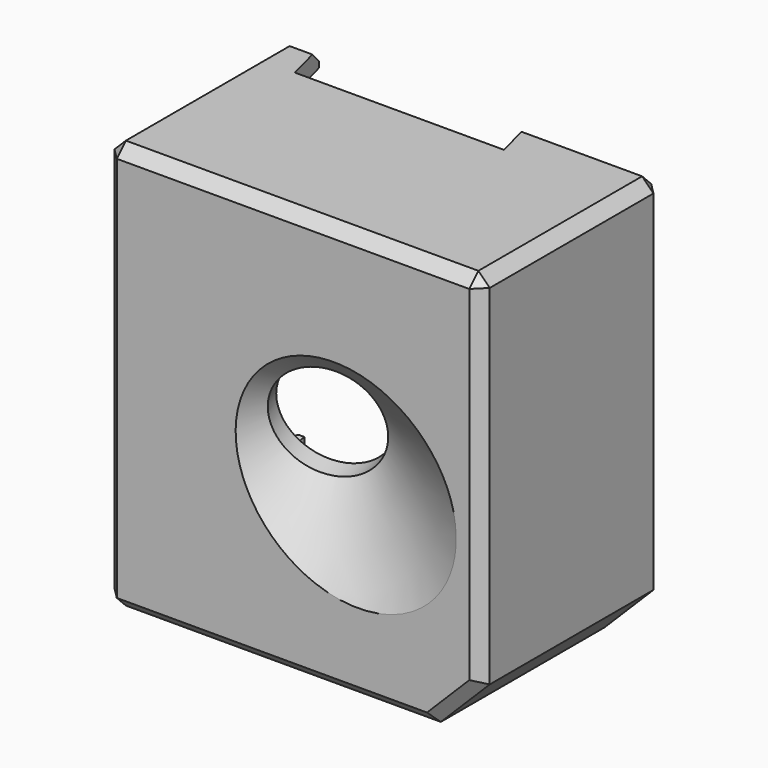
from build123d import *

# Parameters (mm, degrees)
F3_R      = 0.85
F4_DEPTH  = 20
F2_R      = 4.5
F5_DEPTH  = 50
F6_START  = 4
F2_R_2    = 0.8
F6_DEPTH  = 21
F7_DEPTH  = 25
F8_START  = 6
F8_DEPTH  = 19
F9_START  = 6
F9_DEPTH  = 19
F13_SIZE  = 1
F14_START = -18.5
F14_DEPTH = 6.5
F15_START = -10
F15_DEPTH = 15


with BuildPart() as f4:
    # F3 (on Front) → F4 (new body)
    with BuildSketch(Plane.XZ):
        Polygon((14.9801738807, -12.5709681619), (14.9801738807, 19.1251428629), (-18.0198261193, 19.1251428629), (-18.0198261193, -16.8748571371), (10.6762849054, -16.8748571371), align=None)
        Polygon((-16.5198261193, 17.6251428629), (13.4801738807, 17.6251428629), (13.4801738807, -11.6982692705), (9.803586014, -15.3748571371), (-16.5198261193, -15.3748571371), align=None, mode=Mode.SUBTRACT)
        Polygon((13.4801738807, -11.6982692705), (13.4801738807, 17.6251428629), (-16.5198261193, 17.6251428629), (-16.5198261193, -15.3748571371), (9.803586014, -15.3748571371), align=None)
        with Locations((-14.5791273393, -13.3661682528)):
            Circle(F3_R, mode=Mode.SUBTRACT)
        with Locations((11.6150360554, 15.5776236206)):
            Circle(F3_R, mode=Mode.SUBTRACT)
        with Locations((11.6150360554, 15.5776236206)):
            Circle(F3_R)
        with Locations((-14.5791273393, -13.3661682528)):
            Circle(F3_R)
    extrude(amount=-F4_DEPTH)

    # F2 (on line) → F5 (cut)
    with BuildSketch(Plane(origin=(-1.2431124909, 4.6393589756, 0.846901634), x_dir=(-0.9669708455, -0.2507434208, -0.0457724901), z_dir=(-0.2548870022, 0.9512512426, 0.1736481777))):
        with Locations((0, 1.2139233295)):
            Circle(F2_R)
    extrude(amount=-F5_DEPTH, mode=Mode.SUBTRACT)

    # F2 (on line) → F6 (cut)
    with BuildSketch(Plane(origin=(-1.2431124909, 4.6393589756, 0.846901634), x_dir=(-0.9669708455, -0.2507434208, -0.0457724901), z_dir=(-0.2548870022, 0.9512512426, 0.1736481777)).offset(F6_START)):
        with BuildLine():
            Line((13.4, -14.7860766705), (13.4, 11.2139233295))
            Line((13.4, 11.2139233295), (8.9, 11.2139233295))
            Line((8.9, 11.2139233295), (7.5141987763, 11.2139233295))
            Line((7.5141987763, 11.2139233295), (7.5141987763, -1.0798760923))
            Line((7.5141987763, -1.0798760923), (10.4285785928, -2.7891881764))
            Line((10.4285785928, -2.7891881764), (10.4285785928, -10.4892711845))
            ThreePointArc((10.4285785928, -10.4892711845), (11.0398439007, -10.6956797169), (11.3, -11.2860766705))
            ThreePointArc((11.3, -11.2860766705), (11.0656854249, -11.8517620955), (10.5, -12.0860766705))
            Line((10.5, -12.0860766705), (0, -12.0860766705))
            Line((0, -12.0860766705), (-10.5, -12.0860766705))
            ThreePointArc((-10.5, -12.0860766705), (-11.2992009725, -11.250330264), (-10.4285785928, -10.4892711845))
            Line((-10.4285785928, -10.4892711845), (-10.4285785928, -2.7891881764))
            Line((-10.4285785928, -2.7891881764), (-7.5141987763, -1.0798760923))
            Line((-7.5141987763, -1.0798760923), (-7.5141987763, 11.2139233295))
            Line((-7.5141987763, 11.2139233295), (-8.9, 11.2139233295))
            Line((-8.9, 11.2139233295), (-13.4, 11.2139233295))
            Line((-13.4, 11.2139233295), (-13.4, -14.7860766705))
            Line((-13.4, -14.7860766705), (13.4, -14.7860766705))
        make_face()
        with Locations((-10.5, 1.2139233295)):
            Circle(F2_R_2, mode=Mode.SUBTRACT)
        with Locations((10.5, 1.2139233295)):
            Circle(F2_R_2, mode=Mode.SUBTRACT)
        with Locations((-10.5, 1.2139233295)):
            Circle(F2_R_2)
        with Locations((10.5, 1.2139233295)):
            Circle(F2_R_2)
        with BuildLine():
            ThreePointArc((-9.7, -11.2860766705), (-9.9096030464, -10.7462327698), (-10.4285785928, -10.4892711845))
            ThreePointArc((-10.4285785928, -10.4892711845), (-11.2992009725, -11.250330264), (-10.5, -12.0860766705))
            ThreePointArc((-10.5, -12.0860766705), (-9.9343145751, -11.8517620955), (-9.7, -11.2860766705))
        make_face()
        with BuildLine():
            ThreePointArc((11.3, -11.2860766705), (11.0398439007, -10.6956797169), (10.4285785928, -10.4892711845))
            ThreePointArc((10.4285785928, -10.4892711845), (9.7007990275, -11.321823077), (10.5, -12.0860766705))
            ThreePointArc((10.5, -12.0860766705), (11.0656854249, -11.8517620955), (11.3, -11.2860766705))
        make_face()
    extrude(amount=F6_DEPTH, mode=Mode.SUBTRACT)

    # F2 (on line) → F7 (cut)
    with BuildSketch(Plane(origin=(-1.2431124909, 4.6393589756, 0.846901634), x_dir=(-0.9669708455, -0.2507434208, -0.0457724901), z_dir=(-0.2548870022, 0.9512512426, 0.1736481777))):
        with BuildLine():
            Line((7.5141987763, -1.0798760923), (7.5141987763, 11.2139233295))
            Line((7.5141987763, 11.2139233295), (-7.5141987763, 11.2139233295))
            Line((-7.5141987763, 11.2139233295), (-7.5141987763, -1.0798760923))
            Line((-7.5141987763, -1.0798760923), (-10.4285785928, -2.7891881764))
            Line((-10.4285785928, -2.7891881764), (-10.4285785928, -10.4892711845))
            ThreePointArc((-10.4285785928, -10.4892711845), (-9.9096030464, -10.7462327698), (-9.7, -11.2860766705))
            ThreePointArc((-9.7, -11.2860766705), (-9.9343145751, -11.8517620955), (-10.5, -12.0860766705))
            Line((-10.5, -12.0860766705), (0, -12.0860766705))
            Line((0, -12.0860766705), (10.5, -12.0860766705))
            ThreePointArc((10.5, -12.0860766705), (9.7007990275, -11.321823077), (10.4285785928, -10.4892711845))
            Line((10.4285785928, -10.4892711845), (10.4285785928, -2.7891881764))
            Line((10.4285785928, -2.7891881764), (7.5141987763, -1.0798760923))
        make_face()
        with Locations((0, 1.2139233295)):
            Circle(F2_R, mode=Mode.SUBTRACT)
        with Locations((0, 1.2139233295)):
            Circle(F2_R)
        with Locations((10.5, 1.2139233295)):
            Circle(F2_R_2)
        with Locations((-10.5, 1.2139233295)):
            Circle(F2_R_2)
        with BuildLine():
            ThreePointArc((-9.7, -11.2860766705), (-9.9096030464, -10.7462327698), (-10.4285785928, -10.4892711845))
            ThreePointArc((-10.4285785928, -10.4892711845), (-11.2992009725, -11.250330264), (-10.5, -12.0860766705))
            ThreePointArc((-10.5, -12.0860766705), (-9.9343145751, -11.8517620955), (-9.7, -11.2860766705))
        make_face()
        with BuildLine():
            ThreePointArc((11.3, -11.2860766705), (11.0398439007, -10.6956797169), (10.4285785928, -10.4892711845))
            ThreePointArc((10.4285785928, -10.4892711845), (9.7007990275, -11.321823077), (10.5, -12.0860766705))
            ThreePointArc((10.5, -12.0860766705), (11.0656854249, -11.8517620955), (11.3, -11.2860766705))
        make_face()
    extrude(amount=F7_DEPTH, mode=Mode.SUBTRACT)

    # F2 (on line) → F8 (cut)
    with BuildSketch(Plane(origin=(-1.2431124909, 4.6393589756, 0.846901634), x_dir=(-0.9669708455, -0.2507434208, -0.0457724901), z_dir=(-0.2548870022, 0.9512512426, 0.1736481777)).offset(F8_START)):
        Polygon((7.5141987763, 11.2139233295), (8.9, 11.2139233295), (8.9, 13.3604565635), (-8.9, 13.3604565635), (-8.9, 11.2139233295), (-7.5141987763, 11.2139233295), align=None)
    extrude(amount=F8_DEPTH, mode=Mode.SUBTRACT)

    # F2 (on line) → F9 (cut)
    with BuildSketch(Plane(origin=(-1.2431124909, 4.6393589756, 0.846901634), x_dir=(-0.9669708455, -0.2507434208, -0.0457724901), z_dir=(-0.2548870022, 0.9512512426, 0.1736481777)).offset(F9_START)):
        Polygon((-8.9, 13.3604565635), (8.9, 13.3604565635), (8.8780205697, 15.9147679806), (-8.9, 15.9147679806), align=None)
    extrude(amount=F9_DEPTH, mode=Mode.SUBTRACT)

    # F11 (on line) → F12 (revolve, cut)
    with BuildSketch(Plane(origin=(0.0191665666, 0.0050521779, 0.0009222605), x_dir=(0.2543172943, -0.967043413, 0.0122372884), z_dir=(-0.9659258263, -0.2546115422, -0.0464786045))):
        Polygon((5.9364409902, 0.3417365793), (-3.8125691497, 2.0439563921), (-4.4443800577, -1.574572133), (2.9824459925, -14.1161987558), align=None)
    revolve(axis=Axis((0.3963748827, -1.6273101694, 1.1038607146), (0.2587939631, -0.9526311498, -0.1597484808)), mode=Mode.SUBTRACT)

    # F13
    f13_edges = [f4.edges().sort_by_distance(p)[0] for p in [
        (-3.671771, 0, -16.874857),
        (12.828229, 0, -14.722913),
        (14.980174, 0, 3.277087),
        (14.980174, 20, 3.277087),
        (12.828229, 20, -14.722913),
        (-3.671771, 20, -16.874857),
        (-18.019826, 10, 19.125143),
        (-18.019826, 10, -16.874857),
        (14.980174, 10, 19.125143),
        (-1.519826, 0, 19.125143),
        (-18.019826, 0, 1.125143),
        (9.046352, 20, 19.125143),
        (-16.649363, 20, 19.125143),
        (-18.019826, 20, -14.127167),
        (-18.019826, 20, 17.08766),
    ]]
    chamfer(f13_edges, length=F13_SIZE)

    # F3 (on Front) → F14 (cut)
    with BuildSketch(Plane.XZ.offset(F14_START)):
        Polygon((13.4801738807, -11.6982692705), (13.4801738807, 17.6251428629), (-16.5198261193, 17.6251428629), (-16.5198261193, -15.3748571371), (9.803586014, -15.3748571371), align=None)
        with Locations((-14.5791273393, -13.3661682528)):
            Circle(F3_R, mode=Mode.SUBTRACT)
        with Locations((11.6150360554, 15.5776236206)):
            Circle(F3_R, mode=Mode.SUBTRACT)
    extrude(amount=-F14_DEPTH, mode=Mode.SUBTRACT)

    # F3 (on Front) → F15 (cut)
    with BuildSketch(Plane.XZ.offset(F15_START)):
        with Locations((11.6150360554, 15.5776236206)):
            Circle(F3_R)
        with Locations((-14.5791273393, -13.3661682528)):
            Circle(F3_R)
    extrude(amount=-F15_DEPTH, mode=Mode.SUBTRACT)


solid = f4.part
